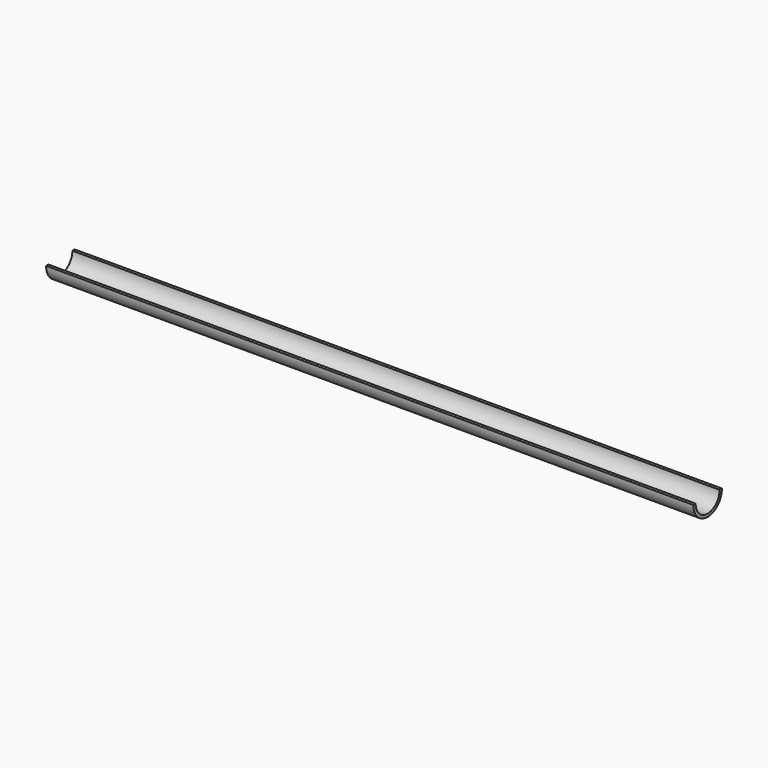
from build123d import *

# Parameters (mm, degrees)
F1_DEPTH = 1100


with BuildPart() as f1:
    # F0 (on Right) → F1 (new body)
    with BuildSketch(Plane.YZ):
        with BuildLine():
            ThreePointArc((25.4, 0), (0, -25.4), (-25.4, 0))
            Line((-25.4, 0), (-30.4, 0))
            ThreePointArc((-30.4, 0), (0, -30.4), (30.4, 0))
            Line((30.4, 0), (25.4, 0))
        make_face()
    extrude(amount=-F1_DEPTH)


solid = f1.part
